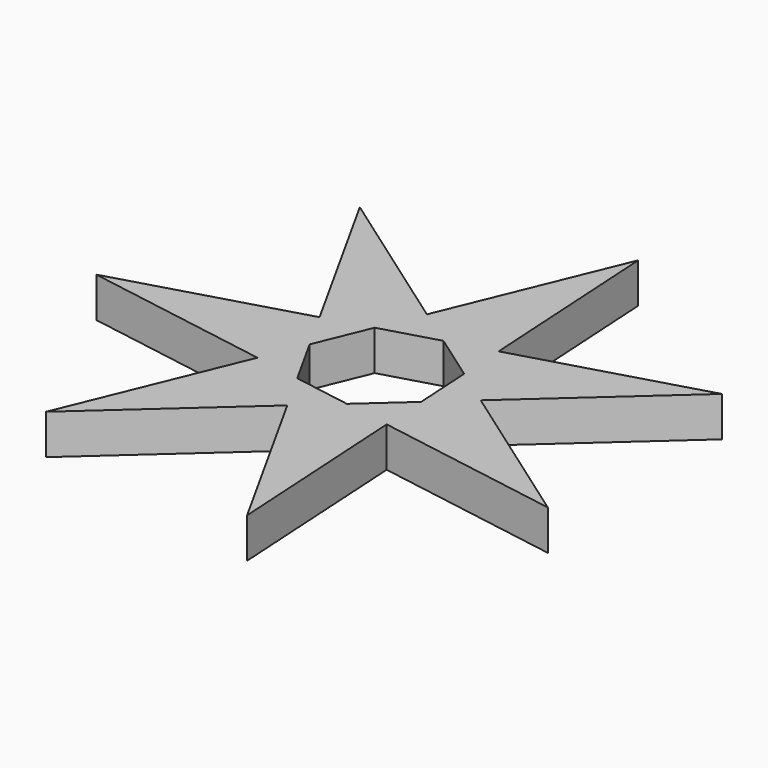
from build123d import *

# Parameters (mm, degrees)
F1_DEPTH = 3.175


with BuildPart() as f1:
    # F0 (on Top) → F1 (new body)
    with BuildSketch(Plane.XY):
        Polygon((-6.7162543001, -3.7338722749), (-12.4155810362, -17.5910588207), (-1.2682571668, -7.5790103409), (-3.0663952842, -4.3446327365), align=None)
        Polygon((-1.2682571668, -7.5790103409), (6.0122554358, -20.6747379059), (5.1347634808, -5.7169990366), (1.484904465, -5.106238575), align=None)
        Polygon((5.1347634808, -5.7169990366), (19.912740937, -8.1899176601), (7.6712024973, 0.4500291478), (4.9180408655, -2.0227426182), align=None)
        Polygon((7.6712024973, 0.4500291478), (18.8185263667, 10.4620776276), (4.4310695693, 6.278176205), (4.6477921846, 2.5839197865), align=None)
        Polygon((4.4310695693, 6.278176205), (3.5535776144, 21.2359150742), (-2.1457491217, 7.3787285284), (0.877661191, 5.2448378896), align=None)
        Polygon((-2.1457491217, 7.3787285284), (-14.3872875614, 16.0186753362), (-7.1067749588, 2.9229477713), (-3.5533665805, 3.9562860866), align=None)
        Polygon((-7.1067749588, 2.9229477713), (-21.4942317562, -1.2609536514), (-6.7162543001, -3.7338722749), (-5.3086368414, -0.3114298331), align=None)
        Polygon((-5.3086368414, -0.3114298331), (-6.7162543001, -3.7338722749), (-3.0663952842, -4.3446327365), align=None)
        Polygon((1.484904465, -5.106238575), (5.1347634808, -5.7169990366), (4.9180408655, -2.0227426182), align=None)
        Polygon((4.6477921846, 2.5839197865), (4.4310695693, 6.278176205), (0.877661191, 5.2448378896), align=None)
        Polygon((-3.5533665805, 3.9562860866), (-7.1067749588, 2.9229477713), (-5.3086368414, -0.3114298331), align=None)
        Polygon((-3.0663952842, -4.3446327365), (-1.2682571668, -7.5790103409), (1.484904465, -5.106238575), align=None)
        Polygon((4.9180408655, -2.0227426182), (7.6712024973, 0.4500291478), (4.6477921846, 2.5839197865), align=None)
        Polygon((0.877661191, 5.2448378896), (-2.1457491217, 7.3787285284), (-3.5533665805, 3.9562860866), align=None)
    extrude(amount=F1_DEPTH)


solid = f1.part
